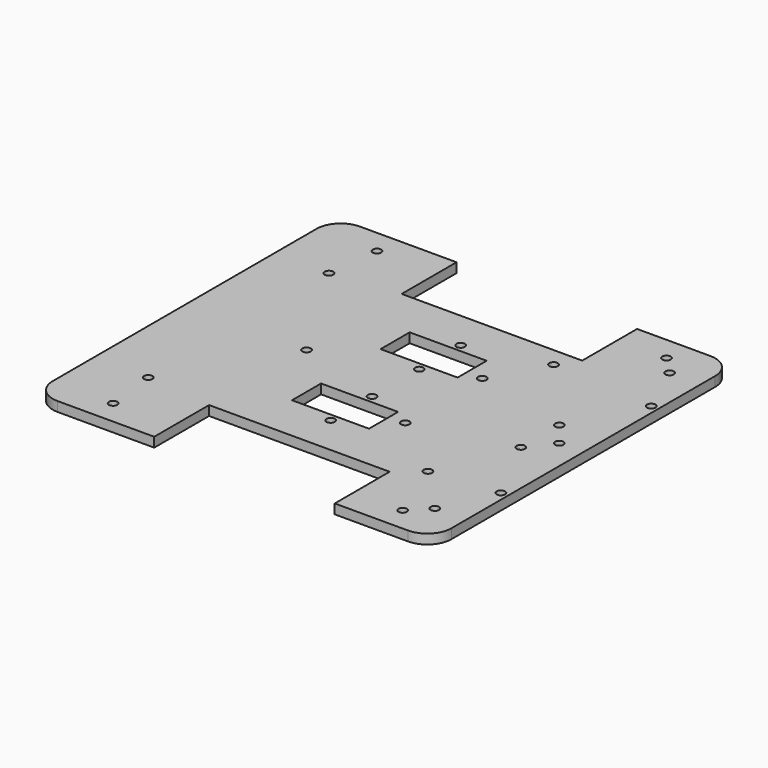
from build123d import *

# Parameters (mm, degrees)
SKETCH043_R     = 1.75
SKETCH043_W     = 31.985
SKETCH043_H     = 15.1
PAD030_DEPTH    = 4
SKETCH063_R     = 1.75
POCKET011_DEPTH = 4
SKETCH076_R     = 1.75
POCKET014_DEPTH = 4
SKETCH081_R     = 1.75
POCKET016_DEPTH = 4


with BuildPart() as part:
    # Sketch043 → Pad030 (new body)
    with BuildSketch(Plane.XY):
        with BuildLine():
            Line((17.5, 50), (17.5, 78.5))
            Line((17.5, 78.5), (37.725, 78.5))
            Line((37.725, 78.5), (47.95, 78.5))
            ThreePointArc((57.95, 68.5), (55.021068, 75.571068), (47.95, 78.5))
            Line((57.95, 0), (57.95, 68.5))
            Line((57.95, -68.5), (57.95, 0))
            ThreePointArc((47.95, -78.5), (55.021068, -75.571068), (57.95, -68.5))
            Line((47.95, -78.5), (37.725, -78.5))
            Line((37.725, -78.5), (17.5, -78.5))
            Line((17.5, -50), (17.5, -78.5))
            Line((-57.5, -50), (17.5, -50))
            Line((-57.5, -50), (-57.5, -78.5))
            Line((-82.5625, -78.5), (-57.5, -78.5))
            Line((-97.625, -78.5), (-82.5625, -78.5))
            ThreePointArc((-107.625, -68.5), (-104.696068, -75.571068), (-97.625, -78.5))
            Line((-107.625, 68.500006), (-107.625, -68.5))
            ThreePointArc((-97.625, 78.5), (-104.696066, 75.57107), (-107.625, 68.500006))
            Line((-97.625, 78.5), (-82.5625, 78.5))
            Line((-57.5, 78.5), (-82.5625, 78.5))
            Line((-57.5, 50), (-57.5, 78.5))
            Line((17.5, 50), (-57.5, 50))
        make_face()
        with Locations((45.04, 60.96)):
            Circle(SKETCH043_R, mode=Mode.SUBTRACT)
        with Locations((54.96, 39.04)):
            Circle(SKETCH043_R, mode=Mode.SUBTRACT)
        with Locations((27, -42)):
            Circle(SKETCH043_R, mode=Mode.SUBTRACT)
        with Locations((12, 42)):
            Circle(SKETCH043_R, mode=Mode.SUBTRACT)
        with Locations((-57, 0)):
            Circle(SKETCH043_R, mode=Mode.SUBTRACT)
        with Locations((-20, -33.75)):
            Circle(SKETCH043_R, mode=Mode.SUBTRACT)
        with Locations((-20, -12.25)):
            Circle(SKETCH043_R, mode=Mode.SUBTRACT)
        with Locations((-20, 12.25)):
            Circle(SKETCH043_R, mode=Mode.SUBTRACT)
        with Locations((-20, 33.75)):
            Circle(SKETCH043_R, mode=Mode.SUBTRACT)
        with Locations((54.96, -39.04)):
            Circle(SKETCH043_R, mode=Mode.SUBTRACT)
        with Locations((45.04, -60.96)):
            Circle(SKETCH043_R, mode=Mode.SUBTRACT)
        with Locations((37.725, 68.5)):
            Circle(SKETCH043_R, mode=Mode.SUBTRACT)
        with Locations((47.95, 0)):
            Circle(SKETCH043_R, mode=Mode.SUBTRACT)
        with Locations((37.725, -68.5)):
            Circle(SKETCH043_R, mode=Mode.SUBTRACT)
        with Locations((-82.5625, -68.5)):
            Circle(SKETCH043_R, mode=Mode.SUBTRACT)
        with Locations((-82.5625, 68.5)):
            Circle(SKETCH043_R, mode=Mode.SUBTRACT)
        with Locations((-22.6175, 23)):
            Rectangle(SKETCH043_W, SKETCH043_H, mode=Mode.SUBTRACT)
        with Locations((-22.6175, -23)):
            Rectangle(SKETCH043_W, SKETCH043_H, mode=Mode.SUBTRACT)
    extrude(amount=PAD030_DEPTH)

    # Sketch063 → Pocket011 (cut)
    with BuildSketch(Plane(origin=(0, 0, 0), x_dir=(1, 0, 0), z_dir=(0, 0, -1))):
        with Locations((-85, 47.225)):
            Circle(SKETCH063_R)
        with Locations((-85, -46.625)):
            Circle(SKETCH063_R)
    extrude(amount=-POCKET011_DEPTH, mode=Mode.SUBTRACT)

    # Sketch076 (on Face4 of Pocket011) → Pocket014 (cut)
    with BuildSketch(Plane(origin=(0, 0, 0), x_dir=(1, 0, 0), z_dir=(0, 0, -1))):
        with Locations((40, 10)):
            Circle(SKETCH076_R)
        with Locations((40, -10)):
            Circle(SKETCH076_R)
    extrude(amount=-POCKET014_DEPTH, mode=Mode.SUBTRACT)

    # Sketch081 (on Face4 of Pocket014) → Pocket016 (cut)
    with BuildSketch(Plane(origin=(0, 0, 0), x_dir=(1, 0, 0), z_dir=(0, 0, -1))):
        with Locations((0, 20)):
            Circle(SKETCH081_R)
        with Locations((0, -20)):
            Circle(SKETCH081_R)
    extrude(amount=-POCKET016_DEPTH, mode=Mode.SUBTRACT)


solid = part.part
